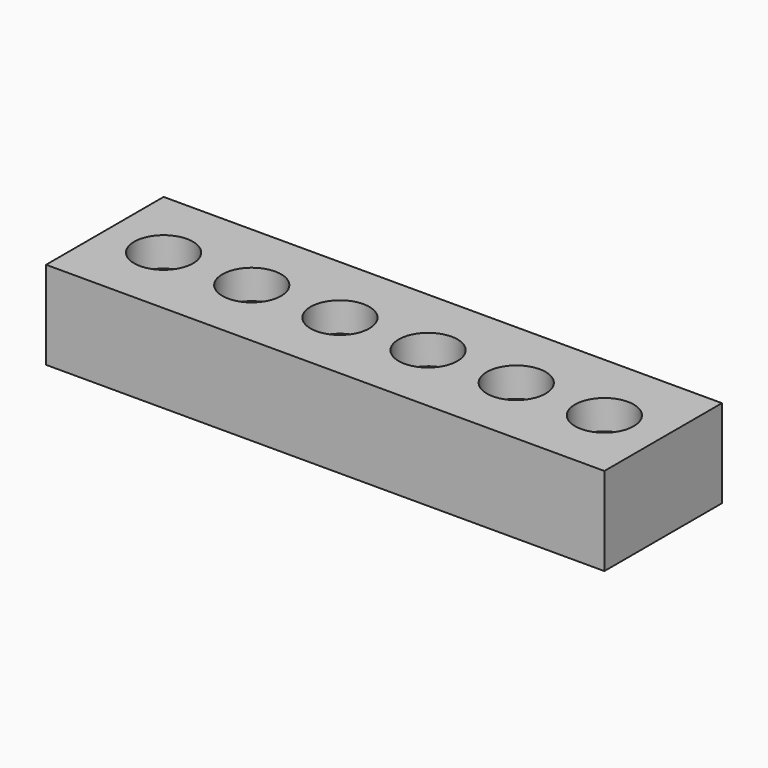
from build123d import *

# Parameters (mm, degrees)
F0_W     = 95
F0_H     = 50
F1_DEPTH = 30
F2_R     = 10
F3_DEPTH = 10


with BuildPart() as f1:
    # F0 (on Top) → F1 (new body)
    with BuildSketch(Plane.XY):
        with Locations((47.5, 0)):
            Rectangle(F0_W, F0_H)
    extrude(amount=F1_DEPTH)

    # F2 (on face) → F3 (cut)
    with BuildSketch(Plane.XY.offset(30)):
        with Locations((15, 0)):
            Circle(F2_R)
        with Locations((45, 0)):
            Circle(F2_R)
        with Locations((75, 0)):
            Circle(F2_R)
    extrude(amount=-F3_DEPTH, mode=Mode.SUBTRACT)

    # F4: F1 across face


with BuildPart() as f1_1:
    add(f1.part)
    add(f1.part.mirror(Plane(origin=(0, 0, 15), x_dir=(0, -1, 0), z_dir=(-1, 0, 0))))


solid = f1_1.part
